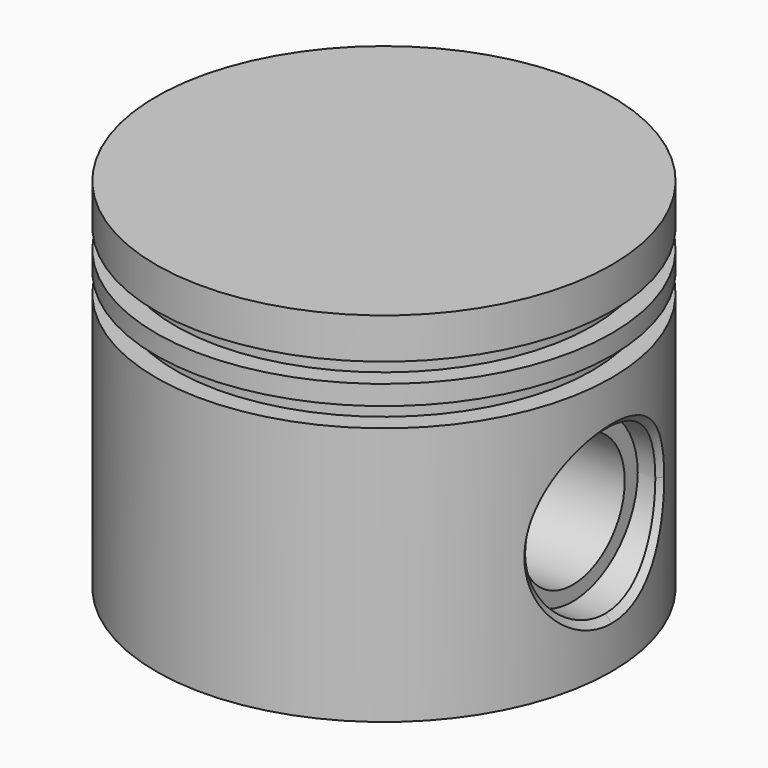
from build123d import *

# Parameters (mm, degrees)
SKETCH035_R     = 12.5
POCKET004_DEPTH = 43
SKETCH037_R     = 12.5
SKETCH037_R_2   = 10
PAD022_DEPTH    = 29
POCKET005_DEPTH = 14
SKETCH039_W     = 3
SKETCH039_H     = 3
CHAMFER009_SIZE = 1
CHAMFER010_SIZE = 1


with BuildPart() as part:
    # Sketch034 → Revolution002 (revolve)
    with BuildSketch(Plane.XZ):
        Polygon((0, 55), (0, 45), (25, 45), (25, 0), (35, 0), (35, 55), align=None)
    revolve(axis=Axis((0, 0, 0), (0, 0, 1)))

    # Sketch035 → Pocket004 (cut, symmetric)
    with BuildSketch(Plane.YZ):
        with Locations((0, 20)):
            Circle(SKETCH035_R)
    extrude(amount=POCKET004_DEPTH, both=True, mode=Mode.SUBTRACT)

    # Sketch037 → Pad022 (join, symmetric)
    with BuildSketch(Plane.YZ):
        with Locations((0, 19.761017)):
            Circle(SKETCH037_R)
        with Locations((0, 19.761017)):
            Circle(SKETCH037_R_2, mode=Mode.SUBTRACT)
    extrude(amount=PAD022_DEPTH, both=True)

    # Sketch037 → Pocket005 (cut, symmetric)
    with BuildSketch(Plane.YZ):
        with Locations((0, 19.761017)):
            Circle(SKETCH037_R)
        with Locations((0, 19.761017)):
            Circle(SKETCH037_R_2, mode=Mode.SUBTRACT)
    extrude(amount=POCKET005_DEPTH, both=True, mode=Mode.SUBTRACT)

    # Sketch039 → Groove006 (revolve, cut)
    with BuildSketch(Plane.XZ):
        with Locations((33.5, 41.23)):
            Rectangle(SKETCH039_W, SKETCH039_H)
        with Locations((33.5, 47.24)):
            Rectangle(SKETCH039_W, SKETCH039_H)
    revolve(axis=Axis((0, 0, 0), (0, 0, 1)), mode=Mode.SUBTRACT)

    # Chamfer009
    chamfer009_edges = [part.edges().sort_by_distance(p)[0] for p in [
        (-32.691742, -12.5, 20),
    ]]
    chamfer(chamfer009_edges, length=CHAMFER009_SIZE)

    # Chamfer010
    chamfer010_edges = [part.edges().sort_by_distance(p)[0] for p in [
        (32.691742, -12.5, 20),
        (33.865108, 8.840501, 28.837168),
        (33.865108, 8.840501, 11.162832),
    ]]
    chamfer(chamfer010_edges, length=CHAMFER010_SIZE)


solid = part.part
